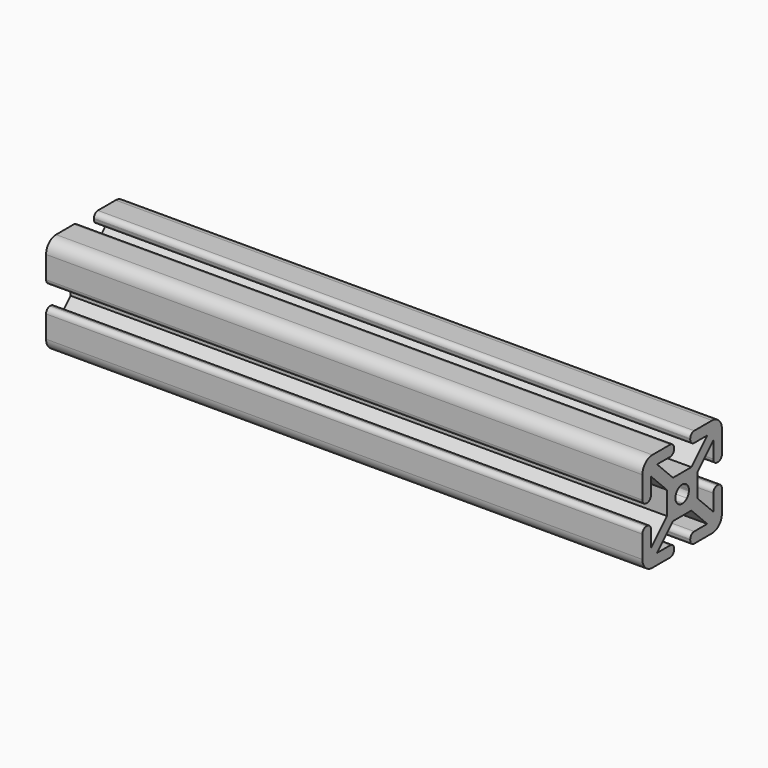
from build123d import *

# Parameters (mm, degrees)
F1_DEPTH = 240
F2_R     = 2
F3_R     = 5


with BuildPart() as f1:
    # F0 (on Right) → F1 (new body)
    with BuildSketch(Plane.YZ):
        Polygon((-11.62, 7.9759603159), (-15.94, 12.2959603159), (-15.94, -0.5893383893), (-11.62, -0.5893383893), align=None)
        Polygon((-11.62, 11.0306616107), (-15.94, 15.3506616107), (-15.94, 12.2959603159), (-11.62, 7.9759603159), (-8.7938307864, 5.1497911023), (-7.266480139, 6.6771417497), align=None)
        Polygon((-8.5652987053, 11.0306616107), (-11.62, 11.0306616107), (-7.266480139, 6.6771417497), (-5.7391294917, 8.2044923971), align=None)
        Polygon((0, 15.3506616107), (-12.8852987053, 15.3506616107), (-8.5652987053, 11.0306616107), (0, 11.0306616107), align=None)
        Polygon((-12.8852987053, 15.3506616107), (-15.94, 15.3506616107), (-11.62, 11.0306616107), (-8.5652987053, 11.0306616107), align=None)
        Polygon((-15.94, -21.5946370946), (-11.62, -17.2746370946), (-11.62, -8.7093383893), (-15.94, -8.7093383893), align=None)
        Polygon((-3.625, -12.3343383893), (-3.625, -9.2796370946), (-11.62, -17.2746370946), (-15.94, -21.5946370946), (-15.94, -24.6493383893), (-12.8852987053, -24.6493383893), (-8.5652987053, -20.3293383893), (-0.5702987053, -12.3343383893), align=None)
        Polygon((0, -20.3293383893), (-8.5652987053, -20.3293383893), (-12.8852987053, -24.6493383893), (0, -24.6493383893), align=None)
        Polygon((14.9650698751, 9.3104327805), (8.6902987053, 3.0356616107), (11.745, 3.0356616107), (11.745, -0.0190396841), (18.0197711699, 6.2557314858), (19.74, 7.9759603159), (16.6852987053, 11.0306616107), align=None)
        Polygon((21.0052987053, 15.3506616107), (16.6852987053, 11.0306616107), (19.74, 7.9759603159), (24.06, 12.2959603159), (24.06, 15.3506616107), align=None)
        Polygon((24.06, 12.2959603159), (19.74, 7.9759603159), (19.74, -0.5893383893), (24.06, -0.5893383893), align=None)
        Polygon((8.12, 11.0306616107), (16.6852987053, 11.0306616107), (21.0052987053, 15.3506616107), (8.12, 15.3506616107), align=None)
        with BuildLine():
            Line((11.745, -9.2796370946), (11.745, -0.0190396841))
            Line((11.745, -0.0190396841), (7.4440143218, -4.3200253623))
            ThreePointArc((7.4440143218, -4.3200253623), (7.456001229, -4.4844879937), (7.46, -4.6493383893))
            ThreePointArc((7.46, -4.6493383893), (7.456001229, -4.8141887849), (7.4440143218, -4.9786514164))
            Line((7.4440143218, -4.9786514164), (11.745, -9.2796370946))
        make_face()
        with BuildLine():
            Line((3.7306869729, -8.0333527111), (-0.5702987053, -12.3343383893))
            Line((-0.5702987053, -12.3343383893), (8.6902987053, -12.3343383893))
            Line((8.6902987053, -12.3343383893), (4.3893130271, -8.0333527111))
            ThreePointArc((4.3893130271, -8.0333527111), (4.06, -8.0493383893), (3.7306869729, -8.0333527111))
        make_face()
        with BuildLine():
            Line((0.6759856782, -4.3200253623), (-3.625, -0.0190396841))
            Line((-3.625, -0.0190396841), (-3.625, -9.2796370946))
            Line((-3.625, -9.2796370946), (0.6759856782, -4.9786514164))
            ThreePointArc((0.6759856782, -4.9786514164), (0.66, -4.6493383893), (0.6759856782, -4.3200253623))
        make_face()
        with BuildLine():
            Line((8.6902987053, 3.0356616107), (-0.5702987053, 3.0356616107))
            Line((-0.5702987053, 3.0356616107), (3.7306869729, -1.2653240675))
            ThreePointArc((3.7306869729, -1.2653240675), (4.06, -1.2493383893), (4.3893130271, -1.2653240675))
            Line((4.3893130271, -1.2653240675), (8.6902987053, 3.0356616107))
        make_face()
        Polygon((-5.7391294917, 8.2044923971), (-7.266480139, 6.6771417497), (-3.625, 3.0356616107), (-0.5702987053, 3.0356616107), align=None)
        Polygon((-3.625, 3.0356616107), (-7.266480139, 6.6771417497), (-8.7938307864, 5.1497911023), (-3.625, -0.0190396841), align=None)
        Polygon((11.745, -12.3343383893), (8.6902987053, -12.3343383893), (16.6852987053, -20.3293383893), (21.0052987053, -24.6493383893), (24.06, -24.6493383893), align=None)
        Polygon((19.74, -17.2746370946), (11.745, -9.2796370946), (11.745, -12.3343383893), (24.06, -24.6493383893), (24.06, -21.5946370946), align=None)
        Polygon((19.74, -8.7093383893), (19.74, -17.2746370946), (24.06, -21.5946370946), (24.06, -8.7093383893), align=None)
        Polygon((21.0052987053, -24.6493383893), (16.6852987053, -20.3293383893), (8.12, -20.3293383893), (8.12, -24.6493383893), align=None)
        with BuildLine():
            Line((11.745, 3.0356616107), (8.6902987053, 3.0356616107))
            Line((8.6902987053, 3.0356616107), (4.3893130271, -1.2653240675))
            ThreePointArc((4.3893130271, -1.2653240675), (6.464163056, -2.2451753333), (7.4440143218, -4.3200253623))
            Line((7.4440143218, -4.3200253623), (11.745, -0.0190396841))
            Line((11.745, -0.0190396841), (11.745, 3.0356616107))
        make_face()
        with BuildLine():
            Line((1.655836944, -2.2451753333), (-3.625, 3.0356616107))
            Line((-3.625, 3.0356616107), (-3.625, -0.0190396841))
            Line((-3.625, -0.0190396841), (0.6759856782, -4.3200253623))
            ThreePointArc((0.6759856782, -4.3200253623), (0.9855894874, -3.1974430763), (1.655836944, -2.2451753333))
        make_face()
        with BuildLine():
            Line((0.6759856782, -4.9786514164), (-3.625, -9.2796370946))
            Line((-3.625, -9.2796370946), (-3.625, -12.3343383893))
            Line((-3.625, -12.3343383893), (-0.5702987053, -12.3343383893))
            Line((-0.5702987053, -12.3343383893), (3.7306869729, -8.0333527111))
            ThreePointArc((3.7306869729, -8.0333527111), (1.655836944, -7.0535014454), (0.6759856782, -4.9786514164))
        make_face()
        with BuildLine():
            Line((11.745, -12.3343383893), (6.464163056, -7.0535014454))
            ThreePointArc((6.464163056, -7.0535014454), (5.511895313, -7.7237489019), (4.3893130271, -8.0333527111))
            Line((4.3893130271, -8.0333527111), (8.6902987053, -12.3343383893))
            Line((8.6902987053, -12.3343383893), (11.745, -12.3343383893))
        make_face()
        with BuildLine():
            ThreePointArc((7.4440143218, -4.9786514164), (7.1344105126, -6.1012337024), (6.464163056, -7.0535014454))
            Line((6.464163056, -7.0535014454), (11.745, -12.3343383893))
            Line((11.745, -12.3343383893), (11.745, -9.2796370946))
            Line((11.745, -9.2796370946), (7.4440143218, -4.9786514164))
        make_face()
        with BuildLine():
            Line((-0.5702987053, 3.0356616107), (-3.625, 3.0356616107))
            Line((-3.625, 3.0356616107), (1.655836944, -2.2451753333))
            ThreePointArc((1.655836944, -2.2451753333), (2.608104687, -1.5749278767), (3.7306869729, -1.2653240675))
            Line((3.7306869729, -1.2653240675), (-0.5702987053, 3.0356616107))
        make_face()
    extrude(amount=F1_DEPTH)

    # F2
    f2_edges = [f1.edges().sort_by_distance(p)[0] for p in [
        (120, 0, 11.030662),
        (120, -11.62, -0.589338),
        (120, -15.94, -0.589338),
        (120, 0, 15.350662),
        (120, 8.12, 11.030662),
        (120, 19.74, -0.589338),
        (120, 24.06, -0.589338),
        (120, 8.12, -24.649338),
        (120, 8.12, 15.350662),
        (120, -15.94, -8.709338),
        (120, -11.62, -8.709338),
        (120, 0, -24.649338),
        (120, 0, -20.329338),
        (120, 8.12, -20.329338),
        (120, 19.74, -8.709338),
        (120, 24.06, -8.709338),
    ]]
    fillet(f2_edges, radius=F2_R)

    # F3
    f3_edges = [f1.edges().sort_by_distance(p)[0] for p in [
        (120, -15.94, 15.350662),
        (120, 24.06, 15.350662),
        (120, 24.06, -24.649338),
        (120, -15.94, -24.649338),
    ]]
    fillet(f3_edges, radius=F3_R)


solid = f1.part
